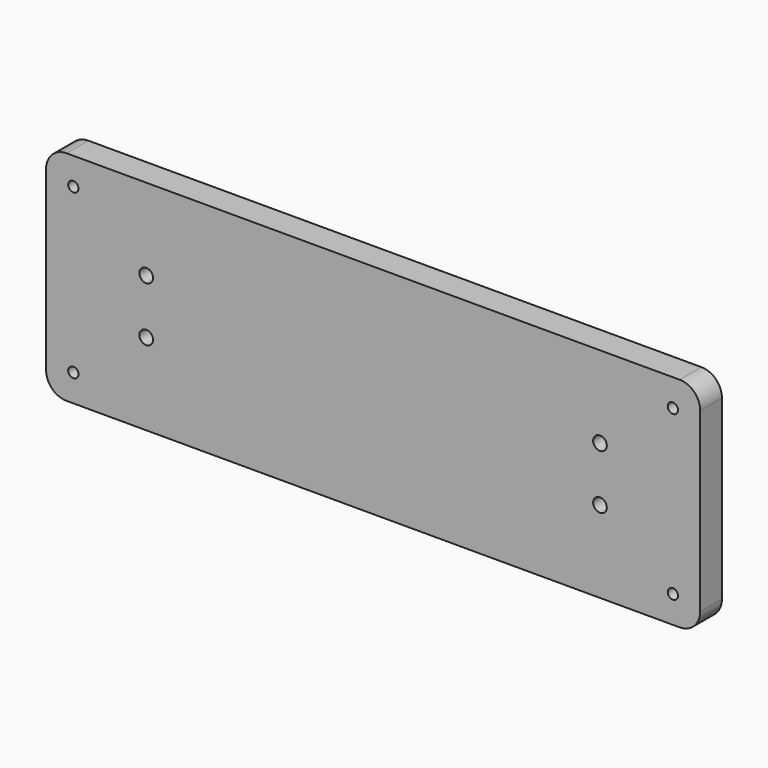
from build123d import *

# Parameters (mm, degrees)
F0_W     = 304.8
F0_H     = 101.6
F1_DEPTH = 12.7
F2_R     = 9.525
F4_D     = 4.7752
F6_D     = 6.35


with BuildPart() as f1:
    # F0 (on Front) → F1 (new body)
    with BuildSketch(Plane.XZ):
        with Locations((152.4, 50.8)):
            Rectangle(F0_W, F0_H)
    extrude(amount=F1_DEPTH)

    # F2
    f2_edges = [f1.edges().sort_by_distance(p)[0] for p in [
        (0, -6.35, 101.6),
        (304.8, -6.35, 101.6),
        (304.8, -6.35, 0),
        (0, -6.35, 0),
    ]]
    fillet(f2_edges, radius=F2_R)

    # F4 (through all)
    with Locations(Plane.XZ.offset(12.7)):
        with Locations((12.7, 88.9), (12.7, 12.7), (292.1, 12.7), (292.1, 88.9)):
            Hole(F4_D / 2)

    # F6 (through all)
    with Locations(Plane.XZ.offset(12.7)):
        with Locations((46.666421, 63.5), (46.666421, 38.1), (258.133579, 63.5), (258.133579, 38.1)):
            Hole(F6_D / 2)


solid = f1.part
